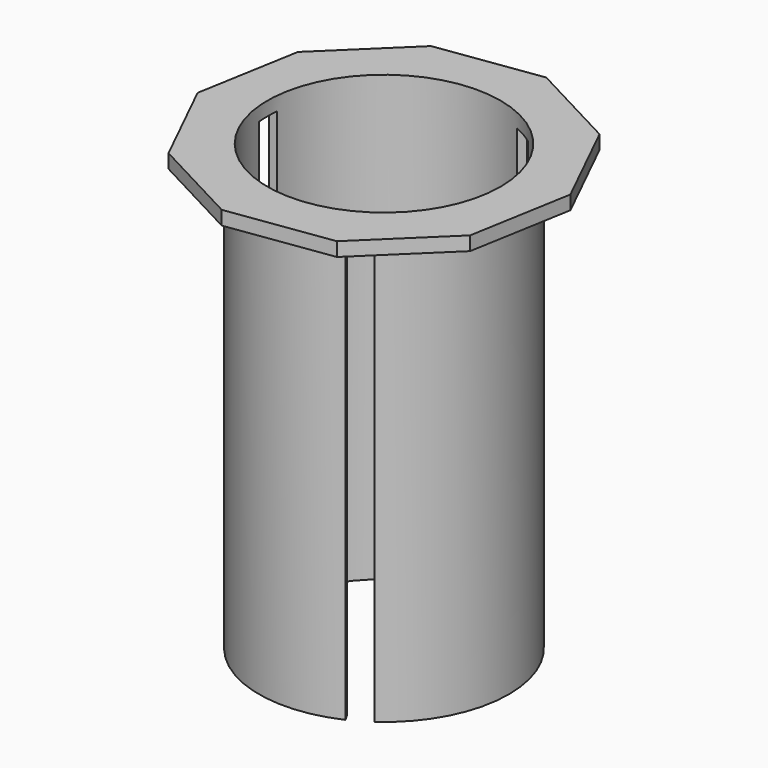
from build123d import *

# Parameters (mm, degrees)
F0_R     = 28.575
F0_R_2   = 26.67
F1_DEPTH = 101.6
F2_R     = 28.575
F3_DEPTH = 3.175
F5_DEPTH = 98.425


with BuildPart() as f1:
    # F0 (on Top) → F1 (new body)
    with BuildSketch(Plane.XY):
        Circle(F0_R)
        Circle(F0_R_2, mode=Mode.SUBTRACT)
    extrude(amount=F1_DEPTH)

    # F2 (on face) → F3 (join)
    with BuildSketch(Plane.XY.offset(101.6)):
        Polygon((-17.0136255064, 34.7249471966), (-34.1751240194, 18.0927142501), (-38.2828867267, -5.4503205912), (-27.7678878919, -26.9115182162), (-6.6464996782, -38.0934305715), (17.0136255064, -34.7249471966), (34.1751240194, -18.0927142501), (38.2828867267, 5.4503205912), (27.7678878919, 26.9115182162), (6.6464996782, 38.0934305715), align=None)
        Circle(F2_R, mode=Mode.SUBTRACT)
    extrude(amount=-F3_DEPTH)

    # F4 (on face) → F5 (cut)
    with BuildSketch(Plane(origin=(0, 0, 0), x_dir=(1, 0, 0), z_dir=(0, 0, -1))):
        with BuildLine():
            Line((16.5036009964, -23.3272754336), (15.546752443, -21.669965124))
            ThreePointArc((15.546752443, -21.669965124), (13.335, -23.0968975189), (10.993364075, -24.298865124))
            Line((10.993364075, -24.298865124), (11.9502126283, -25.9561754336))
            ThreePointArc((11.9502126283, -25.9561754336), (14.2875, -24.7466759131), (16.5036009964, -23.3272754336))
        make_face()
        with BuildLine():
            ThreePointArc((10.993364075, 24.298865124), (13.335, 23.0968975189), (15.546752443, 21.669965124))
            Line((15.546752443, 21.669965124), (16.5036009964, 23.3272754336))
            ThreePointArc((16.5036009964, 23.3272754336), (14.2875, 24.7466759131), (11.9502126283, 25.9561754336))
            Line((11.9502126283, 25.9561754336), (10.993364075, 24.298865124))
        make_face()
        with BuildLine():
            Line((-28.4538136247, -2.6289), (-26.540116518, -2.6289))
            ThreePointArc((-26.540116518, -2.6289), (-26.67, 0), (-26.540116518, 2.6289))
            Line((-26.540116518, 2.6289), (-28.4538136247, 2.6289))
            ThreePointArc((-28.4538136247, 2.6289), (-28.575, 0), (-28.4538136247, -2.6289))
        make_face()
    extrude(amount=-F5_DEPTH, mode=Mode.SUBTRACT)


solid = f1.part
